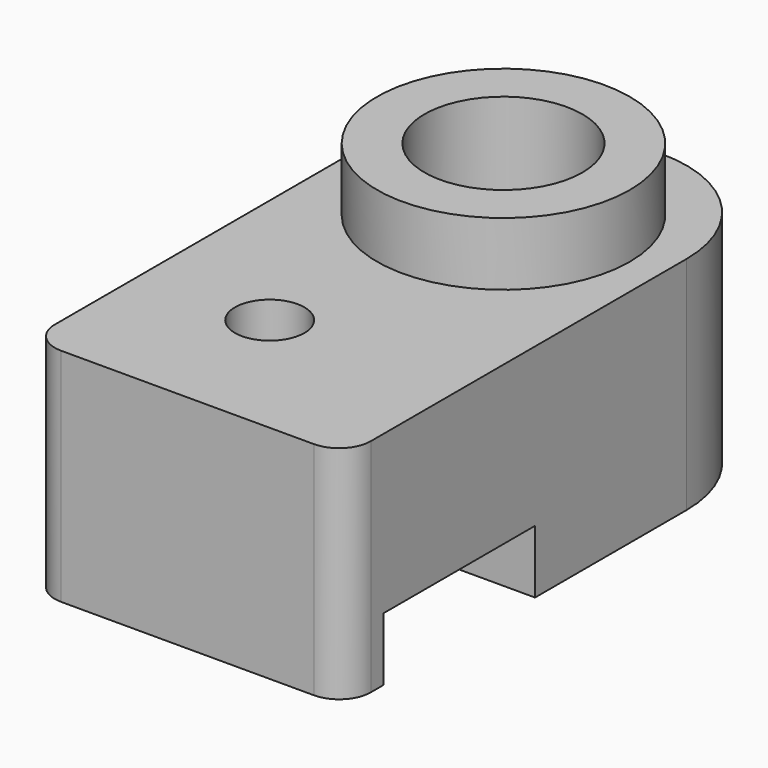
from build123d import *

# Parameters (mm, degrees)
SKETCH_W        = 10
SKETCH_H        = 17.5
SKETCH_R        = 2.5
PAD_DEPTH       = 7
SKETCH001_W     = 10
SKETCH001_H     = 6
POCKET_DEPTH    = 2
SKETCH002_R     = 1.1
POCKET001_DEPTH = 5.001
SKETCH003_R     = 4
PAD001_DEPTH    = 2
SKETCH004_R     = 2.5
POCKET002_DEPTH = 5
FILLET_R        = 4
FILLET001_R     = 1
FILLET002_R     = 1


with BuildPart() as part:
    # Sketch → Pad (new body)
    with BuildSketch(Plane.XY):
        with Locations((0, -3.75)):
            Rectangle(SKETCH_W, SKETCH_H)
        Circle(SKETCH_R, mode=Mode.SUBTRACT)
    extrude(amount=PAD_DEPTH)

    # Sketch001 (on Face6 of Pad) → Pocket (cut)
    with BuildSketch(Plane(origin=(0, 0, 0), x_dir=(1, 0, 0), z_dir=(0, 0, -1))):
        with Locations((0, 8)):
            Rectangle(SKETCH001_W, SKETCH001_H)
    extrude(amount=-POCKET_DEPTH, mode=Mode.SUBTRACT)

    # Sketch002 (on Face7 of Pocket) → Pocket001 (cut, through all)
    with BuildSketch(Plane(origin=(0, 0, 2), x_dir=(1, 0, 0), z_dir=(0, 0, -1))):
        with Locations((-1, 8)):
            Circle(SKETCH002_R)
    extrude(amount=-POCKET001_DEPTH, mode=Mode.SUBTRACT)

    # Sketch003 (on Face7 of Pad) → Pad001 (join)
    with BuildSketch(Plane.XY.offset(7)):
        Circle(SKETCH003_R)
    extrude(amount=PAD001_DEPTH)

    # Sketch004 (on Face15 of Pad001) → Pocket002 (cut)
    with BuildSketch(Plane.XY.offset(9)):
        Circle(SKETCH004_R)
    extrude(amount=-POCKET002_DEPTH, mode=Mode.SUBTRACT)

    # Fillet
    fillet_edges = [part.edges().sort_by_distance(p)[0] for p in [
        (5, 5, 3.5),
        (-5, 5, 3.5),
    ]]
    fillet(fillet_edges, radius=FILLET_R)

    # Fillet001
    fillet001_edges = [part.edges().sort_by_distance(p)[0] for p in [
        (-5, -12.5, 3.5),
    ]]
    fillet(fillet001_edges, radius=FILLET001_R)

    # Fillet002
    fillet002_edges = [part.edges().sort_by_distance(p)[0] for p in [
        (5, -12.5, 3.5),
    ]]
    fillet(fillet002_edges, radius=FILLET002_R)


solid = part.part
